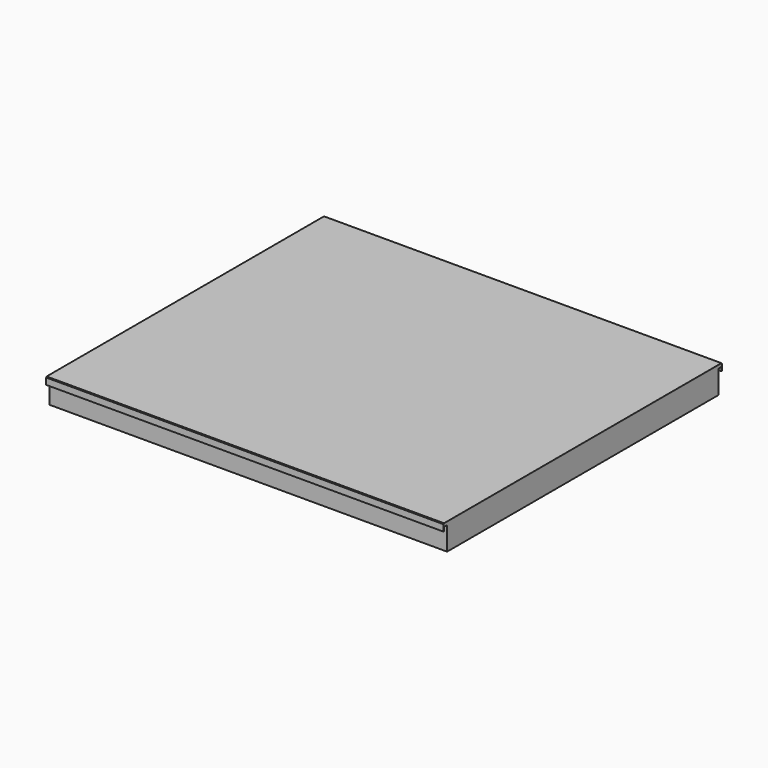
from build123d import *

# Parameters (mm, degrees)
F0_W      = 3060
F0_H      = 2670
F1_DEPTH  = 200
F3_W      = 3060
F3_H      = 2670
F4_DEPTH  = 5
F6_W      = 3060
F6_H      = 30
F6_W_2    = 3069.5407390594
F7_DEPTH  = 180
F8_W      = 3060
F8_H      = 50
F9_DEPTH  = 5
F10_W     = 3060
F10_H     = 50
F11_DEPTH = 5


with BuildPart() as f1:
    # F0 (on Top) → F1 (new body)
    with BuildSketch(Plane.XY):
        with Locations((1530, 1335)):
            Rectangle(F0_W, F0_H)
    extrude(amount=F1_DEPTH)

    # F6 (on Top) → F7 (cut, through all)
    with BuildSketch(Plane.XY):
        with Locations((1530, 2655)):
            Rectangle(F6_W, F6_H)
        with Locations((1534.7703695297, 15)):
            Rectangle(F6_W_2, F6_H)
    extrude(amount=F7_DEPTH, mode=Mode.SUBTRACT)


with BuildPart() as f4:
    # F3 (on face) → F4 (new body)
    with BuildSketch(Plane.XY.offset(200)):
        with Locations((1530, 1335)):
            Rectangle(F3_W, F3_H)
    extrude(amount=F4_DEPTH)


with BuildPart() as f9:
    # F8 (on face) → F9 (new body)
    with BuildSketch(Plane(origin=(0, 2670, 0), x_dir=(-1, 0, 0), z_dir=(0, 1, 0))):
        with Locations((-1530, 175)):
            Rectangle(F8_W, F8_H)
    extrude(amount=F9_DEPTH)


with BuildPart() as f11:
    # F10 (on face) → F11 (new body)
    with BuildSketch(Plane.XZ):
        with Locations((1530, 175)):
            Rectangle(F10_W, F10_H)
    extrude(amount=F11_DEPTH)


solid = Compound([f1.part, f4.part, f9.part, f11.part])
